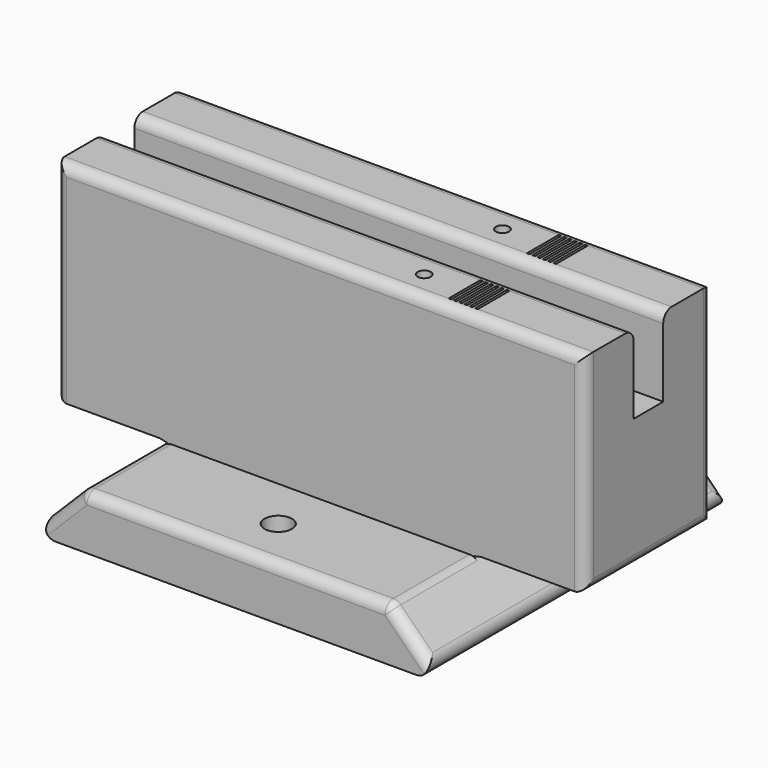
from build123d import *

# Parameters (mm, degrees)
F0_W      = 78
F0_H      = 70
F1_DEPTH  = 10
F3_DEPTH  = 70
F5_D      = 5.2
F6_W      = 100
F6_H      = 30
F7_DEPTH  = 40
F8_W      = 100
F8_H      = 7
F9_DEPTH  = 15
F11_DEPTH = 50.001
F12_R     = 2
F13_W     = 0.5
F13_H     = 7.4945365116
F14_DEPTH = 1
F15_D     = 2.5
F15_DEPTH = 10
F15_TIP   = 0.7510757738


with BuildPart() as f1:
    # F0 (on Top) → F1 (new body)
    with BuildSketch(Plane.XY):
        Rectangle(F0_W, F0_H)
    extrude(amount=F1_DEPTH)

    # F2 (on face) → F3 (cut)
    with BuildSketch(Plane.XZ.offset(35)):
        Polygon((-39, 10), (-39, 0), (-29, 10), align=None)
        Polygon((29, 10), (39, 0), (39, 10), align=None)
    extrude(amount=-F3_DEPTH, mode=Mode.SUBTRACT)

    # F5 (through all)
    with Locations(Plane.XY.offset(10)):
        with Locations((0, 25), (0, -25)):
            Hole(F5_D / 2)

    # F6 (on face) → F7 (join)
    with BuildSketch(Plane.XY.offset(10)):
        Rectangle(F6_W, F6_H)
    extrude(amount=F7_DEPTH)

    # F8 (on face) → F9 (cut)
    with BuildSketch(Plane.XY.offset(50)):
        Rectangle(F8_W, F8_H)
    extrude(amount=-F9_DEPTH, mode=Mode.SUBTRACT)

    # F10 (on face) → F11 (cut, through all)
    with BuildSketch(Plane(origin=(0, 15, 0), x_dir=(-1, 0, 0), z_dir=(0, 1, 0))):
        Polygon((-50, 10), (-29, 10), (-30.3908418864, 10.3), (-50, 10.3), align=None)
        Polygon((30.3908418864, 10.3), (29, 10), (50, 10), (50, 10.3), align=None)
    extrude(amount=-F11_DEPTH, mode=Mode.SUBTRACT)

    # F12
    f12_edges = [f1.edges().sort_by_distance(p)[0] for p in [
        (29, -25, 10),
        (29, 25, 10),
        (34, 35, 5),
        (39, 0, 0),
        (34, -35, 5),
        (0, 35, 10),
        (0, -35, 10),
        (0, -15, 50),
        (0, -3.5, 50),
        (0, 3.5, 50),
        (0, 15, 50),
        (50, 15, 30.15),
        (50, -15, 30.15),
        (50, 0, 10.3),
        (-29, -25, 10),
        (-50, -15, 30.15),
        (-50, 15, 30.15),
        (-50, 0, 10.3),
        (-39, 0, 0),
        (-34, -35, 5),
        (-34, 35, 5),
    ]]
    fillet(f12_edges, radius=F12_R)

    # F13 (on face) → F14 (cut)
    with BuildSketch(Plane.XY.offset(50)):
        with Locations((27.87883, 9.2527317442)):
            Rectangle(F13_W, F13_H)
        with Locations((26.87883, 9.2527317442)):
            Rectangle(F13_W, F13_H)
        with Locations((25.87883, 9.2527317442)):
            Rectangle(F13_W, F13_H)
        with Locations((24.87883, 9.2527317442)):
            Rectangle(F13_W, F13_H)
        with Locations((23.87883, 9.2527317442)):
            Rectangle(F13_W, F13_H)
        with Locations((22.87883, 9.2527317442)):
            Rectangle(F13_W, F13_H)
        with Locations((27.87883, -9.2527317442)):
            Rectangle(F13_W, F13_H)
        with Locations((26.87883, -9.2527317442)):
            Rectangle(F13_W, F13_H)
        with Locations((25.87883, -9.2527317442)):
            Rectangle(F13_W, F13_H)
        with Locations((24.87883, -9.2527317442)):
            Rectangle(F13_W, F13_H)
        with Locations((23.87883, -9.2527317442)):
            Rectangle(F13_W, F13_H)
        with Locations((22.87883, -9.2527317442)):
            Rectangle(F13_W, F13_H)
    extrude(amount=-F14_DEPTH, mode=Mode.SUBTRACT)

    # F15
    with Locations(Plane.XY.offset(50)):
        with Locations((15, 9.253), (15, -9.253)):
            Hole(F15_D / 2, depth=F15_DEPTH)
            with Locations((0, 0, -(F15_DEPTH + F15_TIP / 2))):  # 118° drill point
                Cone(0, F15_D / 2, F15_TIP, mode=Mode.SUBTRACT)


solid = f1.part
